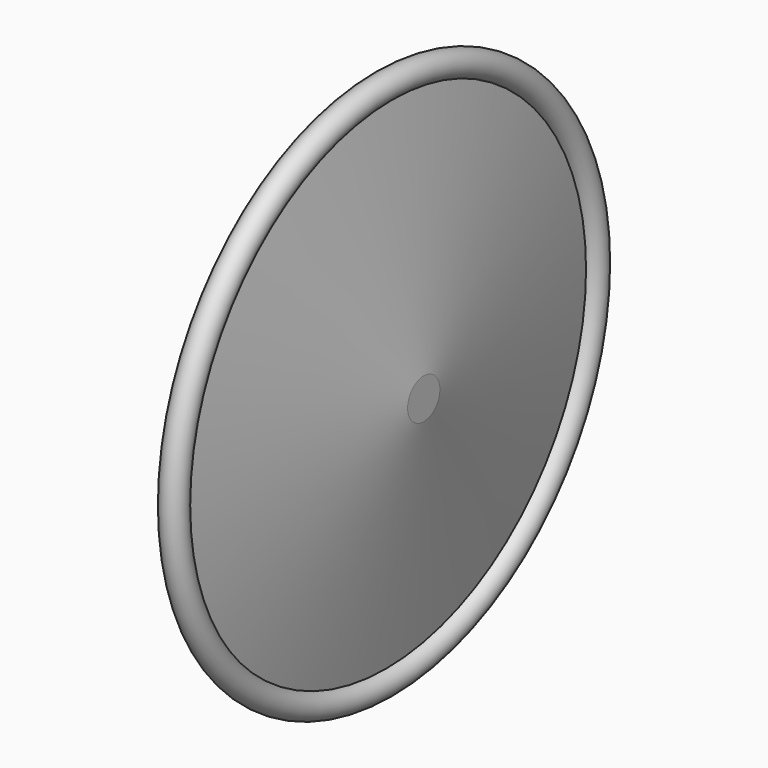
from build123d import *


with BuildPart() as f1:
    # F0 (on Front) → F1 (revolve)
    with BuildSketch(Plane.XZ):
        with BuildLine():
            Line((-50, 0), (50, 0))
            Line((50, 0), (50, 25.4))
            Line((50, 25.4), (2.56982, 314.53438))
            ThreePointArc((2.56982, 314.53438), (0, 346.075), (-2.56982, 314.53438))
            Line((-2.56982, 314.53438), (-50, 25.4))
            Line((-50, 25.4), (-50, 0))
        make_face()
    revolve(axis=Axis((0, 0, 0), (-1, 0, 0)))


solid = f1.part
